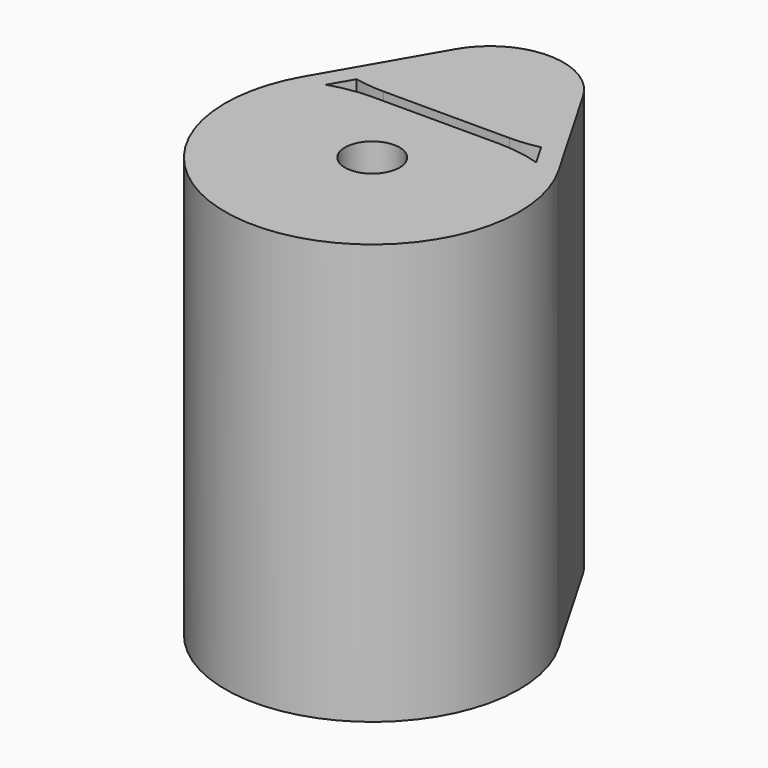
from build123d import *

# Parameters (mm, degrees)
SKETCH_R     = 0.65
PAD_DEPTH    = 10
POCKET_DEPTH = 10.001


with BuildPart() as part:
    # Sketch → Pad (new body)
    with BuildSketch(Plane.XY):
        with BuildLine():
            ThreePointArc((-31.438047, 12.704399), (-28.406958, 7.454399), (-25.375869, 12.704399))
            Line((-25.375869, 12.704399), (-26.891414, 15.329399))
            ThreePointArc((-26.891414, 15.329399), (-28.406958, 16.204399), (-29.922503, 15.329399))
            Line((-31.438047, 12.704399), (-29.922503, 15.329399))
        make_face()
        with Locations((-28.406958, 10.954399)):
            Circle(SKETCH_R, mode=Mode.SUBTRACT)
    extrude(amount=PAD_DEPTH)

    # Sketch001 (on Face7 of Pad) → Pocket (cut, through all)
    with BuildSketch(Plane.XY.offset(10)):
        with BuildLine():
            ThreePointArc((-30.600779, 13.234717), (-30.255847, 13.179118), (-29.906958, 13.160514))
            Line((-29.906958, 13.160514), (-26.906958, 13.160514))
            ThreePointArc((-26.906958, 13.160514), (-26.55807, 13.179118), (-26.213138, 13.234717))
            Line((-25.906958, 12.704399), (-26.213138, 13.234717))
            ThreePointArc((-25.906958, 12.704399), (-26.400902, 12.82125), (-26.906958, 12.860514))
            Line((-26.906958, 12.860514), (-29.906958, 12.860514))
            ThreePointArc((-29.906958, 12.860514), (-30.413015, 12.82125), (-30.906958, 12.704399))
            Line((-30.906958, 12.704399), (-30.600779, 13.234717))
        make_face()
    extrude(amount=-POCKET_DEPTH, mode=Mode.SUBTRACT)


solid = part.part
